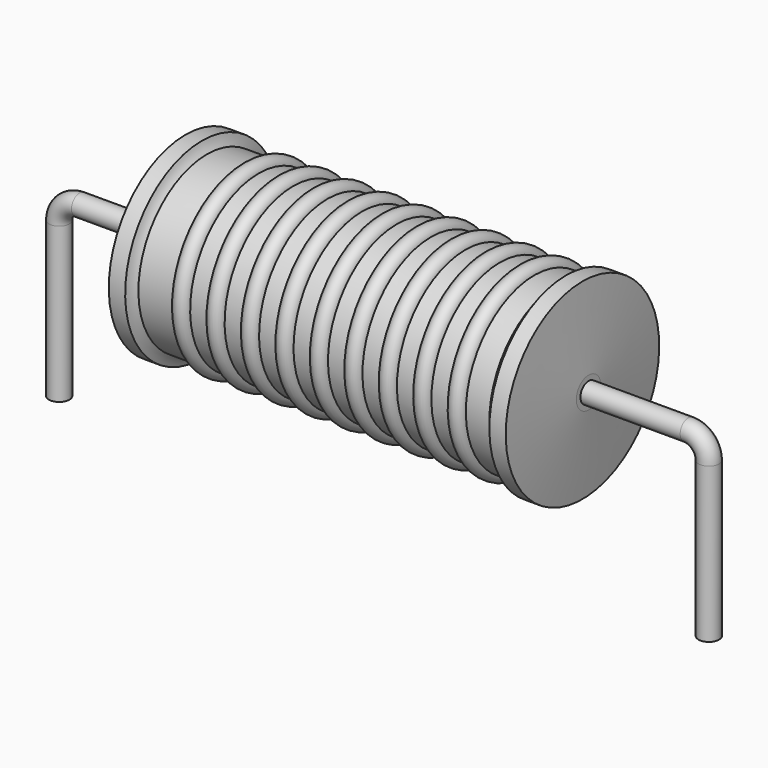
from build123d import *

# Parameters (mm, degrees)
SKETCH_R = 0.4


with BuildPart() as sweep_body:
    # Sweep: sweep along a path in Sketch001
    with BuildLine(Plane.XZ) as sweep_path:
        Line((0, -3), (0, 3.05))
        ThreePointArc((0, 3.05), (0.234311, 3.615682), (0.799991, 3.85))
        Line((0.799991, 3.85), (24.6, 3.85))
        ThreePointArc((24.6, 3.85), (25.165685, 3.615685), (25.4, 3.05))
        Line((25.4, 3.05), (25.4, -3))
    # Sketch → Sweep (sweep)
    with BuildSketch(Plane.XY.offset(-2)):
        Circle(SKETCH_R)
    sweep(path=sweep_path.line)


with BuildPart() as revolution:
    # Sketch002 → Revolution (revolve)
    with BuildSketch(Plane.XZ):
        with BuildLine():
            Line((4.94, 7.6), (5.58, 7.6))
            ThreePointArc((5.58, 7.6), (5.657022, 7.389121), (5.778, 7.2))
            Line((5.778, 7.2), (19.5, 7.2))
            ThreePointArc((19.5, 7.2), (19.680612, 7.38351), (19.82, 7.6))
            Line((19.82, 7.6), (20.46, 7.6))
            ThreePointArc((20.7, 4.45), (20.583835, 6.025292), (20.46, 7.6))
            Line((20.7, 3.85), (20.7, 4.45))
            Line((4.7, 3.85), (20.7, 3.85))
            Line((4.7, 3.85), (4.7, 4.45))
            ThreePointArc((4.94, 7.6), (4.816165, 6.025292), (4.7, 4.45))
        make_face()
    revolve(axis=Axis((4.7, 0, 3.85), (1, 0, 0)))


with BuildPart() as obj1:
    # Sketch003 → Revolution001 (revolve)
    with BuildSketch(Plane.XZ):
        with BuildLine():
            ThreePointArc((7.807368, 7.136), (7.470526, 7.472842), (7.133684, 7.136))
            Line((6.46, 7.136), (7.133684, 7.136))
            Line((6.46, 7.136), (6.46, 6.386))
            Line((6.46, 6.386), (19.26, 6.386))
            Line((19.26, 6.386), (19.26, 7.136))
            Line((18.586316, 7.136), (19.26, 7.136))
            ThreePointArc((18.586316, 7.136), (18.249474, 7.472842), (17.912632, 7.136))
            Line((17.238947, 7.136), (17.912632, 7.136))
            ThreePointArc((17.238947, 7.136), (16.902105, 7.472842), (16.565263, 7.136))
            Line((15.891579, 7.136), (16.565263, 7.136))
            ThreePointArc((15.891579, 7.136), (15.554737, 7.472842), (15.217895, 7.136))
            Line((14.544211, 7.136), (15.217895, 7.136))
            ThreePointArc((14.544211, 7.136), (14.207368, 7.472842), (13.870526, 7.136))
            Line((13.196842, 7.136), (13.870526, 7.136))
            ThreePointArc((13.196842, 7.136), (12.86, 7.472842), (12.523158, 7.136))
            Line((11.849474, 7.136), (12.523158, 7.136))
            ThreePointArc((11.849474, 7.136), (11.512632, 7.472842), (11.175789, 7.136))
            Line((10.502105, 7.136), (11.175789, 7.136))
            ThreePointArc((10.502105, 7.136), (10.165263, 7.472842), (9.828421, 7.136))
            Line((9.154737, 7.136), (9.828421, 7.136))
            ThreePointArc((9.154737, 7.136), (8.817895, 7.472842), (8.481053, 7.136))
            Line((7.807368, 7.136), (8.481053, 7.136))
        make_face()
    revolve(axis=Axis((5.1, 0, 3.85), (1, 0, 0)))

    # obj1: union Sweep body, Revolution
    add(sweep_body.part)
    add(revolution.part)


solid = obj1.part
